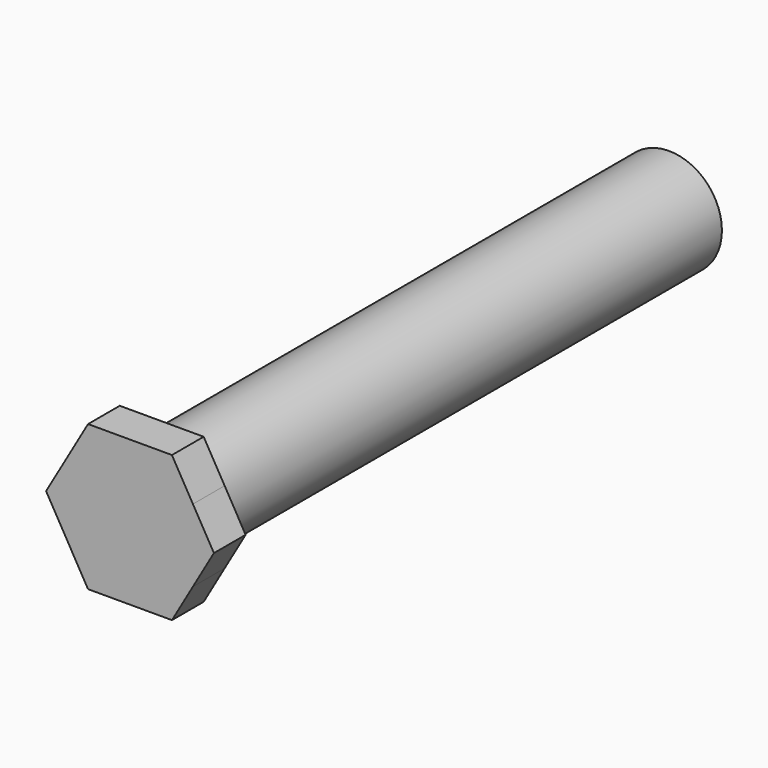
from build123d import *

# Parameters (mm, degrees)
F0_R     = 12.7
F1_DEPTH = 76.2
F2_R     = 12.7
F3_DEPTH = 9.525


with BuildPart() as f1:
    # F0 (on Front) → F1 (new body, symmetric)
    with BuildSketch(Plane.XZ):
        Circle(F0_R)
    extrude(amount=F1_DEPTH, both=True)

    # F2 (on face) → F3 (join)
    with BuildSketch(Plane.XZ.offset(76.2)):
        with BuildLine():
            ThreePointArc((15.1229686772, -8.7312498898), (16.867479758, -4.5196275136), (17.4625, 0))
            ThreePointArc((17.4625, 0), (16.8674797672, 4.5196274796), (15.1229687125, 8.7312498287))
            ThreePointArc((15.1229687125, 8.7312498287), (8.7312500857, 15.1229685641), (0, 17.4625))
            ThreePointArc((0, 17.4625), (-8.7312499563, 15.1229686388), (-15.1229685631, 8.7312500875))
            ThreePointArc((-15.1229685631, 8.7312500875), (-17.4625, -1.494e-07), (-15.1229684137, -8.7312503463))
            ThreePointArc((-15.1229684137, -8.7312503463), (-8.7312498116, -15.1229687224), (3.53e-08, -17.4625))
            ThreePointArc((3.53e-08, -17.4625), (8.7312500704, -15.122968573), (15.1229686772, -8.7312498898))
        make_face()
        Circle(F2_R, mode=Mode.SUBTRACT)
        Circle(F2_R)
        with BuildLine():
            ThreePointArc((0, 17.4625), (8.7312500857, 15.1229685641), (15.1229687125, 8.7312498287))
            Line((15.1229687125, 8.7312498287), (10.0819790757, 17.4625))
            Line((10.0819790757, 17.4625), (0, 17.4625))
        make_face()
        with BuildLine():
            ThreePointArc((-15.1229685631, 8.7312500875), (-8.7312499563, 15.1229686388), (0, 17.4625))
            Line((0, 17.4625), (-10.0819790757, 17.4625))
            Line((-10.0819790757, 17.4625), (-15.1229685631, 8.7312500875))
        make_face()
        with BuildLine():
            ThreePointArc((15.1229687125, 8.7312498287), (16.8674797672, 4.5196274796), (17.4625, 0))
            ThreePointArc((17.4625, 0), (16.867479758, -4.5196275136), (15.1229686772, -8.7312498898))
            Line((15.1229686772, -8.7312498898), (20.1639581514, 0))
            Line((20.1639581514, 0), (15.1229687125, 8.7312498287))
        make_face()
        with BuildLine():
            Line((10.0819790757, -17.4625), (15.1229686772, -8.7312498898))
            ThreePointArc((15.1229686772, -8.7312498898), (8.7312500704, -15.122968573), (3.53e-08, -17.4625))
            Line((3.53e-08, -17.4625), (10.0819790757, -17.4625))
        make_face()
        with BuildLine():
            Line((-10.0819790757, -17.4625), (3.53e-08, -17.4625))
            ThreePointArc((3.53e-08, -17.4625), (-8.7312498116, -15.1229687224), (-15.1229684137, -8.7312503463))
            Line((-15.1229684137, -8.7312503463), (-10.0819790757, -17.4625))
        make_face()
        with BuildLine():
            ThreePointArc((-15.1229684137, -8.7312503463), (-17.4625, -1.494e-07), (-15.1229685631, 8.7312500875))
            Line((-15.1229685631, 8.7312500875), (-20.1639581514, 0))
            Line((-20.1639581514, 0), (-15.1229684137, -8.7312503463))
        make_face()
    extrude(amount=F3_DEPTH)


solid = f1.part
